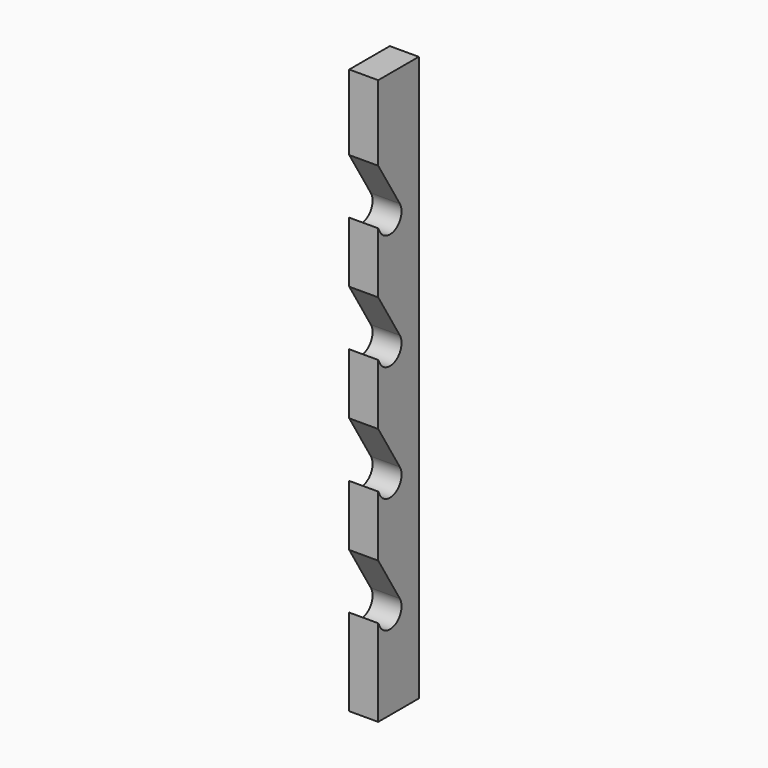
from build123d import *

# Parameters (mm, degrees)
F0_W     = 50
F0_H     = 390
F1_DEPTH = 20
F3_DEPTH = 20.001
F4_W     = 15
F4_H     = 390
F5_DEPTH = 20.001


with BuildPart() as f1:
    # F0 (on Right) → F1 (new body)
    with BuildSketch(Plane.YZ):
        with Locations((-40.524636, 124.095061)):
            Rectangle(F0_W, F0_H)
    extrude(amount=F1_DEPTH)

    # F2 (on face) → F3 (cut, through all)
    with BuildSketch(Plane.YZ.offset(20)):
        with BuildLine():
            Line((-31.839951, -3.563652), (-65.524636, 51.735411))
            Line((-65.524636, 51.735411), (-65.524636, 13.706328))
            Line((-65.524636, 13.706328), (-49.812226, -12.088231))
            ThreePointArc((-49.812226, -12.088231), (-36.094721, -17.801029), (-31.839951, -3.563652))
        make_face()
        with BuildLine():
            Line((-31.839951, 76.436348), (-65.524636, 131.735411))
            Line((-65.524636, 131.735411), (-65.524636, 93.706328))
            Line((-65.524636, 93.706328), (-49.812226, 67.911769))
            ThreePointArc((-49.812226, 67.911769), (-36.094721, 62.198971), (-31.839951, 76.436348))
        make_face()
        with BuildLine():
            Line((-31.839951, 156.436348), (-65.524636, 211.735411))
            Line((-65.524636, 211.735411), (-65.524636, 173.706328))
            Line((-65.524636, 173.706328), (-49.812226, 147.911769))
            ThreePointArc((-49.812226, 147.911769), (-36.094721, 142.198971), (-31.839951, 156.436348))
        make_face()
        with BuildLine():
            Line((-31.839951, 236.436348), (-65.524636, 291.735411))
            Line((-65.524636, 291.735411), (-65.524636, 253.706328))
            Line((-65.524636, 253.706328), (-49.812226, 227.911769))
            ThreePointArc((-49.812226, 227.911769), (-36.094721, 222.198971), (-31.839951, 236.436348))
        make_face()
    extrude(amount=-F3_DEPTH, mode=Mode.SUBTRACT)

    # F4 (on face) → F5 (cut, through all)
    with BuildSketch(Plane.YZ.offset(20)):
        with Locations((-58.024636, 124.095061)):
            Rectangle(F4_W, F4_H)
    extrude(amount=-F5_DEPTH, mode=Mode.SUBTRACT)


solid = f1.part
